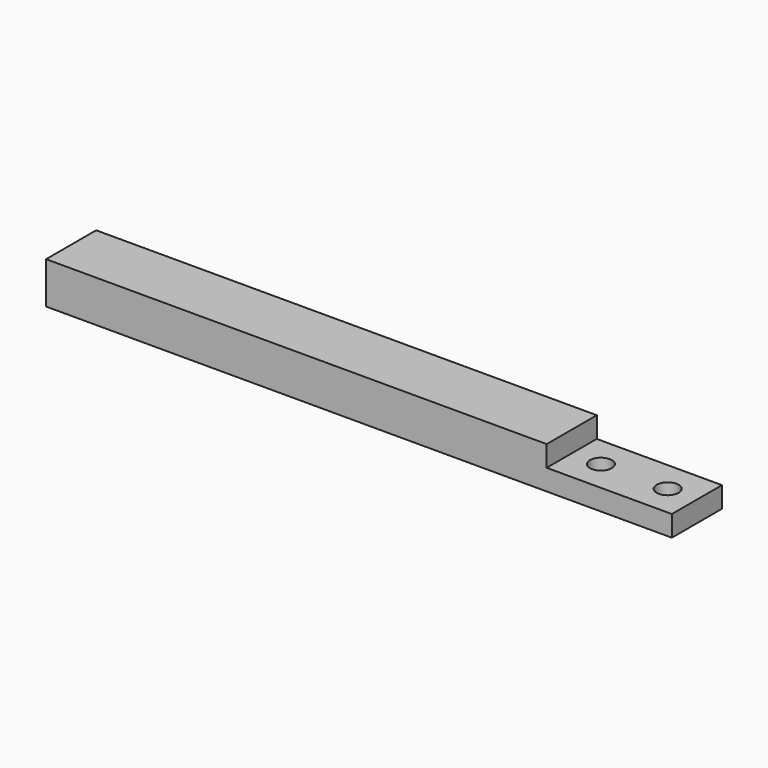
from build123d import *

# Parameters (mm, degrees)
PAD_DEPTH    = 15
SKETCH001_R  = 2.625
POCKET_DEPTH = 5


with BuildPart() as part:
    # Sketch → Pad (new body)
    with BuildSketch(Plane.XZ):
        Polygon((-68.87526, -5.227487), (-68.87526, 4.772513), (51.12474, 4.772513), (51.12474, -0.227487), (81.12474, -0.227487), (81.12474, -5.227487), align=None)
    extrude(amount=PAD_DEPTH)

    # Sketch001 (on Face4 of Pad) → Pocket (cut)
    with BuildSketch(Plane(origin=(0, 0, -0.227487), x_dir=(-1, 0, 0), z_dir=(0, 0, 1))):
        with Locations((-74.12474, 7.5)):
            Circle(SKETCH001_R)
        with Locations((-58.12474, 7.5)):
            Circle(SKETCH001_R)
    extrude(amount=-POCKET_DEPTH, mode=Mode.SUBTRACT)


solid = part.part
